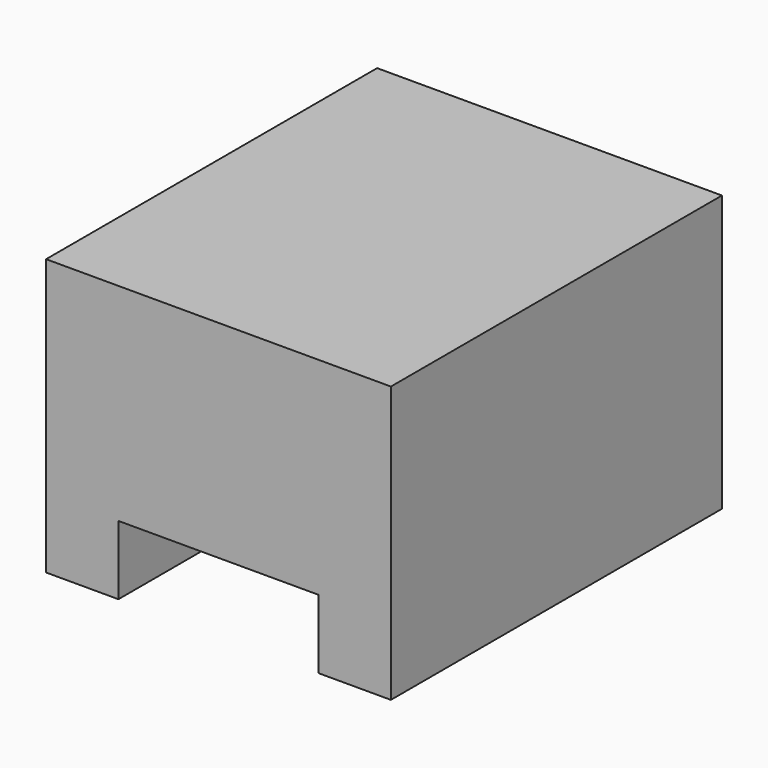
from build123d import *

# Parameters (mm, degrees)
F0_W     = 127
F0_H     = 152.4
F1_DEPTH = 101.6
F2_W     = 73.71036
F2_H     = 50.8
F3_DEPTH = 2540


with BuildPart() as f1:
    # F0 (on Top) → F1 (new body)
    with BuildSketch(Plane.XY):
        Rectangle(F0_W, F0_H)
    extrude(amount=F1_DEPTH)

    # F2 (on Front) → F3 (cut, symmetric)
    with BuildSketch(Plane.XZ):
        Rectangle(F2_W, F2_H)
    extrude(amount=F3_DEPTH, both=True, mode=Mode.SUBTRACT)


solid = f1.part
